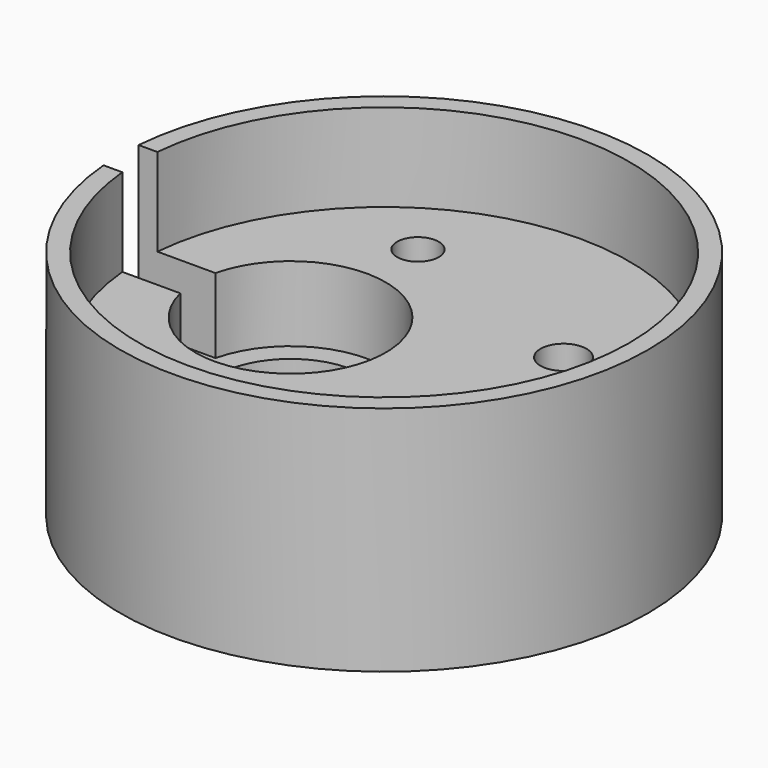
from build123d import *

# Parameters (mm, degrees)
F3_D     = 2.2606
F3_DEPTH = 5.715
F3_TIP   = 0.6791527577
F4_R     = 5.1689
F5_DEPTH = 4.064
F6_R     = 4.0005
F7_DEPTH = 2.8702
F9_DEPTH = 25.4
F11_D    = 2.5


with BuildPart() as f1:
    # F0 (on Front) → F1 (revolve)
    with BuildSketch(Plane.XZ):
        Polygon((14.330415332, -12.5857), (14.330415332, 0), (13.314415332, 0), (13.314415332, -4.7625), (0, -4.7625), (0, -12.5857), align=None)
    revolve(axis=Axis((0, 0, -8.6741), (0, 0, 1)))

    # F3
    with Locations(Plane.XY.offset(-4.7625)):
        with Locations((9.525, 0), (-4.7625, 8.248891971), (-4.7625, -8.248891971)):
            Hole(F3_D / 2, depth=F3_DEPTH)
            with Locations((0, 0, -(F3_DEPTH + F3_TIP / 2))):  # 118° drill point
                Cone(0, F3_D / 2, F3_TIP, mode=Mode.SUBTRACT)

    # F4 (on face) → F5 (cut)
    with BuildSketch(Plane.XY.offset(-4.7625)):
        with Locations((-5.08, 0)):
            Circle(F4_R)
    extrude(amount=-F5_DEPTH, mode=Mode.SUBTRACT)

    # F6 (on face) → F7 (cut)
    with BuildSketch(Plane.XY.offset(-8.8265)):
        with Locations((-5.08, 0)):
            Circle(F6_R)
    extrude(amount=-F7_DEPTH, mode=Mode.SUBTRACT)

    # F8 (on face) → F9 (cut)
    with BuildSketch(Plane.XY.offset(-8.8265)):
        with BuildLine():
            ThreePointArc((-10.109904504, -1.190625), (-10.2489, 0), (-10.109904504, 1.190625))
            Line((-10.109904504, 1.190625), (-15.529622134, 1.190625))
            Line((-15.529622134, 1.190625), (-15.529622134, -1.190625))
            Line((-15.529622134, -1.190625), (-10.109904504, -1.190625))
        make_face()
    extrude(amount=F9_DEPTH, mode=Mode.SUBTRACT)

    # F11 (through all)
    with Locations(Plane.XY.offset(-4.7625)):
        with Locations((6.2419385775, 4.370652445)):
            Hole(F11_D / 2)


solid = f1.part
